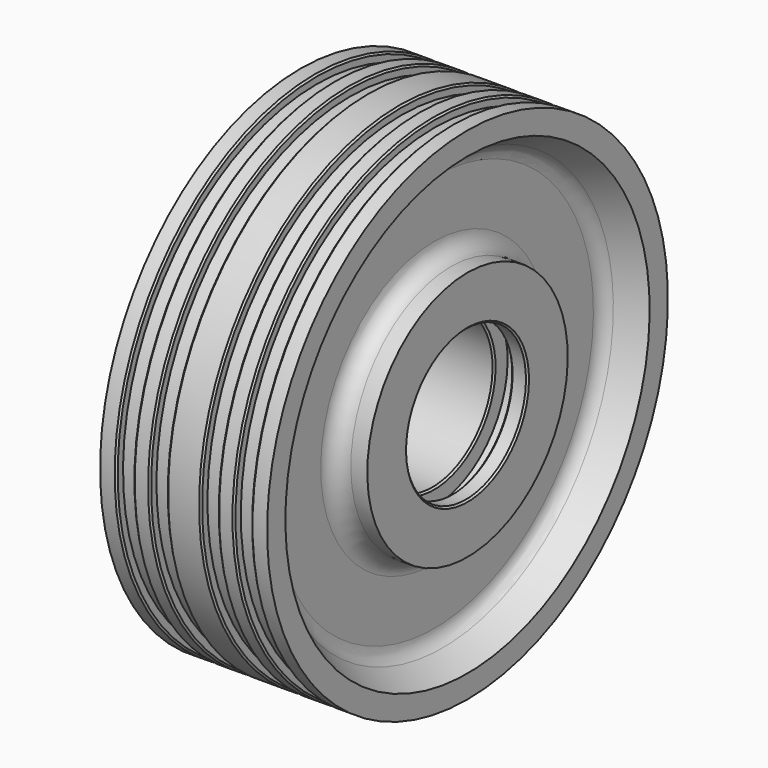
from build123d import *

# Parameters (mm, degrees)
F2_SIZE = 0.5


with BuildPart() as f1:
    # F0 (on Front) → F1 (revolve)
    with BuildSketch(Plane.XZ):
        with BuildLine():
            Line((5.131281, 75), (0, 75))
            Line((0, 75), (-5.131281, 75))
            Line((-5.131281, 75), (-5.131281, 72.5))
            Line((-5.131281, 72.5), (-10.131281, 72.5))
            Line((-10.131281, 72.5), (-10.131281, 75))
            Line((-10.131281, 75), (-15.131281, 75))
            Line((-15.131281, 75), (-15.131281, 72.5))
            Line((-15.131281, 72.5), (-20.131281, 72.5))
            Line((-20.131281, 72.5), (-20.131281, 75))
            Line((-20.131281, 75), (-25, 75))
            Line((-25, 75), (-25, 68.159989))
            Line((-25, 68.159989), (-17.565782, 63.867841))
            ThreePointArc((-17.565782, 63.867841), (-15.735655, 62.037714), (-15.065782, 59.537714))
            Line((-15.065782, 59.537714), (-15.065782, 42.5))
            ThreePointArc((-15.065782, 42.5), (-16.530248, 38.964466), (-20.065782, 37.5))
            Line((-20.065782, 37.5), (-25, 37.5))
            Line((-25, 37.5), (-25, 22.5))
            Line((-25, 22.5), (-20, 22.5))
            Line((-20, 22.5), (-20, 27.5))
            Line((-20, 27.5), (-15, 27.5))
            Line((-15, 27.5), (-15, 22.5))
            Line((-15, 22.5), (0, 22.5))
            Line((0, 22.5), (15, 22.5))
            Line((15, 22.5), (15, 27.5))
            Line((15, 27.5), (20, 27.5))
            Line((20, 27.5), (20, 22.5))
            Line((20, 22.5), (25, 22.5))
            Line((25, 22.5), (25, 37.5))
            Line((25, 37.5), (20.065782, 37.5))
            ThreePointArc((20.065782, 37.5), (16.530248, 38.964466), (15.065782, 42.5))
            Line((15.065782, 42.5), (15.065782, 59.537714))
            ThreePointArc((15.065782, 59.537714), (15.735655, 62.037714), (17.565782, 63.867841))
            Line((17.565782, 63.867841), (25, 68.159989))
            Line((25, 68.159989), (25, 75))
            Line((25, 75), (20.131281, 75))
            Line((20.131281, 75), (20.131281, 72.5))
            Line((20.131281, 72.5), (15.131281, 72.5))
            Line((15.131281, 72.5), (15.131281, 75))
            Line((15.131281, 75), (10.131281, 75))
            Line((10.131281, 75), (10.131281, 72.5))
            Line((10.131281, 72.5), (5.131281, 72.5))
            Line((5.131281, 72.5), (5.131281, 75))
        make_face()
    revolve(axis=Axis((-58.325773, 0, 0), (-1, 0, 0)))

    # F2
    f2_edges = [f1.edges().sort_by_distance(p)[0] for p in [
        (-15, 0, -22.5),
        (20, 0, -22.5),
        (15, 0, -22.5),
        (-20, 0, -22.5),
        (-25, 0, -22.5),
        (25, 0, -22.5),
        (15.131281, 0, -75),
        (5.131281, 0, -75),
        (-10.131281, 0, -75),
        (-20.131281, 0, -75),
        (-15.131281, 0, -75),
        (-5.131281, 0, -75),
        (10.131281, 0, -75),
        (20.131281, 0, -75),
    ]]
    chamfer(f2_edges, length=F2_SIZE)


solid = f1.part
